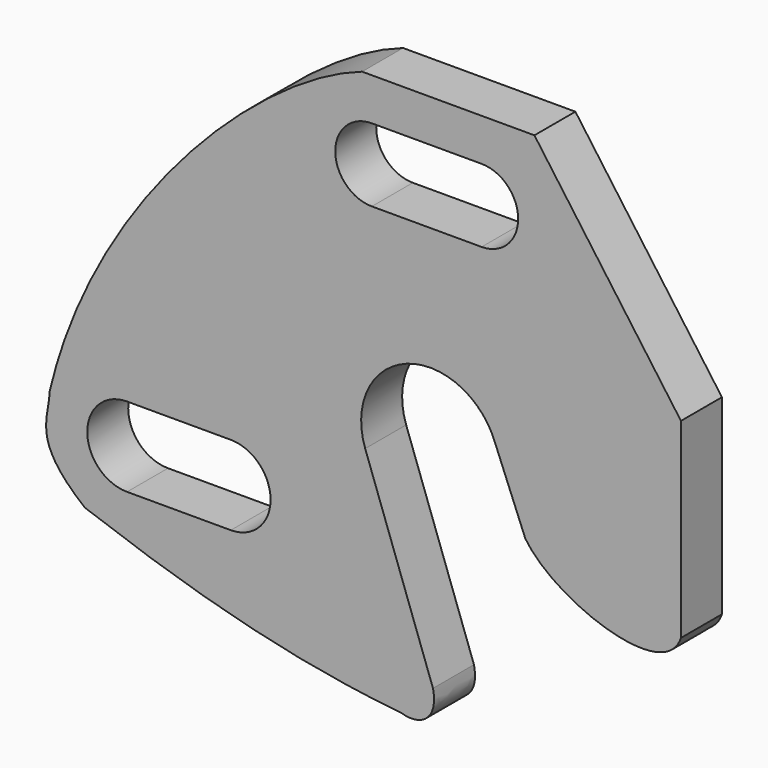
from build123d import *

# Parameters (mm, degrees)
F1_DEPTH = 3.5


with BuildPart() as f1:
    # F0 (on Front) → F1 (new body)
    with BuildSketch(Plane.XZ):
        with BuildLine():
            Line((11.111137, 19.428022), (-0.664115, 19.428022))
            add(Edge.make_bspline(
                [(-0.664115, 19.428022), (-7.776919, 17.012886), (-18.978179, 6.115542), (-22.016576, -6.739209)],
                knots=[0, 0, 0, 0, 33.773533, 33.773533, 33.773533, 33.773533], degree=3))
            add(Edge.make_bspline(
                [(-22.016576, -6.739209), (-22.068911, -8.466247), (-23.326607, -9.983946), (-19.60919, -12.96701)],
                knots=[0, 0, 0, 0, 6.676901, 6.676901, 6.676901, 6.676901], degree=3))
            add(Edge.make_bspline(
                [(-19.60919, -12.96701), (-12.502755, -15.554382), (-5.717248, -17.509151), (1.972557, -18.273501)],
                knots=[0, 0, 0, 0, 22.22455, 22.22455, 22.22455, 22.22455], degree=3))
            add(Edge.make_bspline(
                [(1.972557, -18.273501), (3.454669, -18.725327), (4.548717, -17.823574), (4.177886, -16.095417)],
                knots=[0, 0, 0, 0, 3.099601, 3.099601, 3.099601, 3.099601], degree=3))
            Line((4.177886, -16.095417), (-0.454777, -3.180466))
            ThreePointArc((-0.454777, -3.180466), (2.403419, 2.858196), (8.442081, 0))
            Line((8.442081, 0), (10.477334, -5.011199))
            add(Edge.make_bspline(
                [(21.124166, -7.553054), (20.007996, -10.873632), (12.419499, -8.047571), (10.477334, -5.011199)],
                knots=[0, 0, 0, 0, 10.946052, 10.946052, 10.946052, 10.946052], degree=3))
            Line((21.124166, -7.553054), (21.124166, 5.503655))
            Line((21.124166, 5.503655), (11.111137, 19.428022))
        make_face()
        with BuildLine():
            ThreePointArc((-16.730794, -11.07734), (-19.449372, -8.358763), (-16.730794, -5.640186))
            Line((-16.730794, -5.640186), (-9.639258, -5.640186))
            ThreePointArc((-9.639258, -5.640186), (-6.920681, -8.358763), (-9.639258, -11.07734))
            Line((-9.639258, -11.07734), (-16.730794, -11.07734))
        make_face(mode=Mode.SUBTRACT)
        with BuildLine():
            ThreePointArc((0, 11.537572), (-2.5, 14.037572), (0, 16.537572))
            Line((0, 16.537572), (7.50006, 16.537572))
            ThreePointArc((7.50006, 16.537572), (10.00006, 14.037572), (7.50006, 11.537572))
            Line((7.50006, 11.537572), (0, 11.537572))
        make_face(mode=Mode.SUBTRACT)
    extrude(amount=F1_DEPTH)


solid = f1.part
